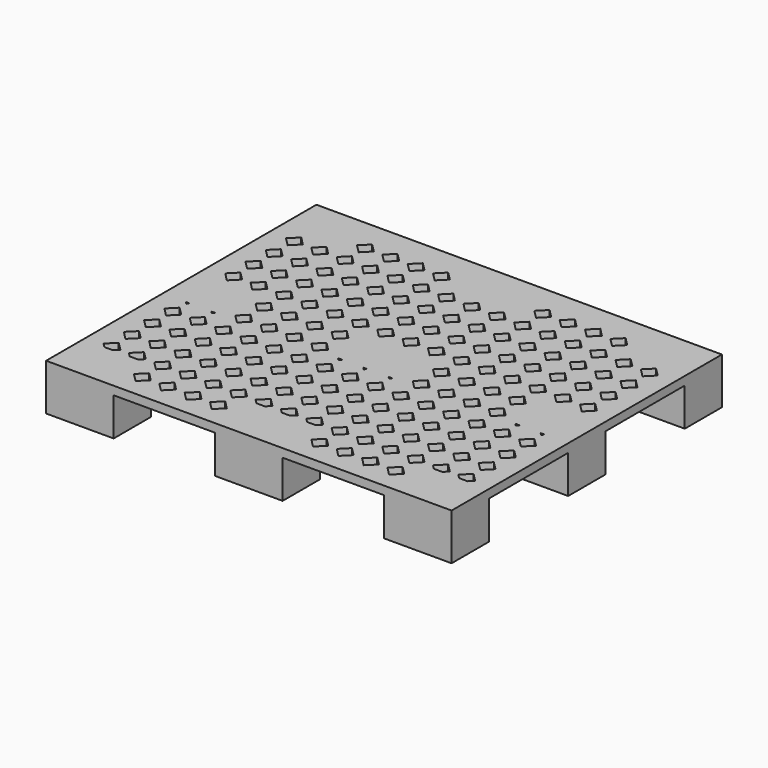
from build123d import *

# Parameters (mm, degrees)
F0_W     = 1219.2
F0_H     = 1016
F1_DEPTH = 25.4
F3_DEPTH = 25.401
F4_W     = 203.2
F4_H     = 139.7
F5_DEPTH = 139.7


with BuildPart() as f1:
    # F0 (on Top) → F1 (new body)
    with BuildSketch(Plane.XY):
        with Locations((34.03111, 0)):
            Rectangle(F0_W, F0_H)
    extrude(amount=F1_DEPTH)

    # F2 (on face) → F3 (cut, through all)
    with BuildSketch(Plane.XY.offset(25.4)):
        Polygon((-499.36889, -406.4), (-524.76889, -431.8), (-499.36889, -457.2), (-473.96889, -431.8), align=None)
        Polygon((-473.96889, -355.6), (-499.36889, -330.2), (-524.76889, -355.6), (-499.36889, -381), align=None)
        Polygon((-473.96889, -279.4), (-499.36889, -254), (-524.76889, -279.4), (-499.36889, -304.8), align=None)
        Polygon((-473.96889, -203.2), (-499.36889, -177.8), (-524.76889, -203.2), (-499.36889, -228.6), align=None)
        Polygon((-473.96889, -127), (-499.36889, -101.6), (-524.76889, -127), (-499.36889, -152.4), align=None)
        Polygon((-473.96889, -50.8), (-499.36889, -25.4), (-524.76889, -50.8), (-499.36889, -76.2), align=None)
        Polygon((-473.96889, 25.4), (-499.36889, 50.8), (-524.76889, 25.4), (-499.36889, 0), align=None)
        Polygon((-473.96889, 101.6), (-499.36889, 127), (-524.76889, 101.6), (-499.36889, 76.2), align=None)
        Polygon((-473.96889, 177.8), (-499.36889, 203.2), (-524.76889, 177.8), (-499.36889, 152.4), align=None)
        Polygon((-473.96889, 254), (-499.36889, 279.4), (-524.76889, 254), (-499.36889, 228.6), align=None)
        Polygon((-473.96889, 330.2), (-499.36889, 355.6), (-524.76889, 330.2), (-499.36889, 304.8), align=None)
        Polygon((-473.96889, 406.4), (-499.36889, 431.8), (-524.76889, 406.4), (-499.36889, 381), align=None)
        Polygon((-397.76889, -431.8), (-423.16889, -406.4), (-448.56889, -431.8), (-423.16889, -457.2), align=None)
        Polygon((-397.76889, -355.6), (-423.16889, -330.2), (-448.56889, -355.6), (-423.16889, -381), align=None)
        Polygon((-397.76889, -279.4), (-423.16889, -254), (-448.56889, -279.4), (-423.16889, -304.8), align=None)
        Polygon((-397.76889, -203.2), (-423.16889, -177.8), (-448.56889, -203.2), (-423.16889, -228.6), align=None)
        Polygon((-397.76889, -127), (-423.16889, -101.6), (-448.56889, -127), (-423.16889, -152.4), align=None)
        Polygon((-397.76889, -50.8), (-423.16889, -25.4), (-448.56889, -50.8), (-423.16889, -76.2), align=None)
        Polygon((-397.76889, 25.4), (-423.16889, 50.8), (-448.56889, 25.4), (-423.16889, 0), align=None)
        Polygon((-397.76889, 101.6), (-423.16889, 127), (-448.56889, 101.6), (-423.16889, 76.2), align=None)
        Polygon((-397.76889, 177.8), (-423.16889, 203.2), (-448.56889, 177.8), (-423.16889, 152.4), align=None)
        Polygon((-397.76889, 254), (-423.16889, 279.4), (-448.56889, 254), (-423.16889, 228.6), align=None)
        Polygon((-397.76889, 330.2), (-423.16889, 355.6), (-448.56889, 330.2), (-423.16889, 304.8), align=None)
        Polygon((-397.76889, 406.4), (-423.16889, 431.8), (-448.56889, 406.4), (-423.16889, 381), align=None)
        Polygon((-321.56889, -431.8), (-346.96889, -406.4), (-372.36889, -431.8), (-346.96889, -457.2), align=None)
        Polygon((-321.56889, -355.6), (-346.96889, -330.2), (-372.36889, -355.6), (-346.96889, -381), align=None)
        Polygon((-321.56889, -279.4), (-346.96889, -254), (-372.36889, -279.4), (-346.96889, -304.8), align=None)
        Polygon((-321.56889, -203.2), (-346.96889, -177.8), (-372.36889, -203.2), (-346.96889, -228.6), align=None)
        Polygon((-321.56889, -127), (-346.96889, -101.6), (-372.36889, -127), (-346.96889, -152.4), align=None)
        Polygon((-321.56889, -50.8), (-346.96889, -25.4), (-372.36889, -50.8), (-346.96889, -76.2), align=None)
        Polygon((-321.56889, 25.4), (-346.96889, 50.8), (-372.36889, 25.4), (-346.96889, 0), align=None)
        Polygon((-321.56889, 101.6), (-346.96889, 127), (-372.36889, 101.6), (-346.96889, 76.2), align=None)
        Polygon((-321.56889, 177.8), (-346.96889, 203.2), (-372.36889, 177.8), (-346.96889, 152.4), align=None)
        Polygon((-321.56889, 254), (-346.96889, 279.4), (-372.36889, 254), (-346.96889, 228.6), align=None)
        Polygon((-321.56889, 330.2), (-346.96889, 355.6), (-372.36889, 330.2), (-346.96889, 304.8), align=None)
        Polygon((-321.56889, 406.4), (-346.96889, 431.8), (-372.36889, 406.4), (-346.96889, 381), align=None)
        Polygon((-245.36889, -431.8), (-270.76889, -406.4), (-296.16889, -431.8), (-270.76889, -457.2), align=None)
        Polygon((-245.36889, -355.6), (-270.76889, -330.2), (-296.16889, -355.6), (-270.76889, -381), align=None)
        Polygon((-245.36889, -279.4), (-270.76889, -254), (-296.16889, -279.4), (-270.76889, -304.8), align=None)
        Polygon((-245.36889, -203.2), (-270.76889, -177.8), (-296.16889, -203.2), (-270.76889, -228.6), align=None)
        Polygon((-245.36889, -127), (-270.76889, -101.6), (-296.16889, -127), (-270.76889, -152.4), align=None)
        Polygon((-245.36889, -50.8), (-270.76889, -25.4), (-296.16889, -50.8), (-270.76889, -76.2), align=None)
        Polygon((-245.36889, 25.4), (-270.76889, 50.8), (-296.16889, 25.4), (-270.76889, 0), align=None)
        Polygon((-245.36889, 101.6), (-270.76889, 127), (-296.16889, 101.6), (-270.76889, 76.2), align=None)
        Polygon((-245.36889, 177.8), (-270.76889, 203.2), (-296.16889, 177.8), (-270.76889, 152.4), align=None)
        Polygon((-245.36889, 254), (-270.76889, 279.4), (-296.16889, 254), (-270.76889, 228.6), align=None)
        Polygon((-245.36889, 330.2), (-270.76889, 355.6), (-296.16889, 330.2), (-270.76889, 304.8), align=None)
        Polygon((-245.36889, 406.4), (-270.76889, 431.8), (-296.16889, 406.4), (-270.76889, 381), align=None)
        Polygon((-169.16889, -431.8), (-194.56889, -406.4), (-219.96889, -431.8), (-194.56889, -457.2), align=None)
        Polygon((-169.16889, -355.6), (-194.56889, -330.2), (-219.96889, -355.6), (-194.56889, -381), align=None)
        Polygon((-169.16889, -279.4), (-194.56889, -254), (-219.96889, -279.4), (-194.56889, -304.8), align=None)
        Polygon((-169.16889, -203.2), (-194.56889, -177.8), (-219.96889, -203.2), (-194.56889, -228.6), align=None)
        Polygon((-169.16889, -127), (-194.56889, -101.6), (-219.96889, -127), (-194.56889, -152.4), align=None)
        Polygon((-169.16889, -50.8), (-194.56889, -25.4), (-219.96889, -50.8), (-194.56889, -76.2), align=None)
        Polygon((-169.16889, 25.4), (-194.56889, 50.8), (-219.96889, 25.4), (-194.56889, 0), align=None)
        Polygon((-169.16889, 101.6), (-194.56889, 127), (-219.96889, 101.6), (-194.56889, 76.2), align=None)
        Polygon((-169.16889, 177.8), (-194.56889, 203.2), (-219.96889, 177.8), (-194.56889, 152.4), align=None)
        Polygon((-169.16889, 254), (-194.56889, 279.4), (-219.96889, 254), (-194.56889, 228.6), align=None)
        Polygon((-169.16889, 330.2), (-194.56889, 355.6), (-219.96889, 330.2), (-194.56889, 304.8), align=None)
        Polygon((-169.16889, 406.4), (-194.56889, 431.8), (-219.96889, 406.4), (-194.56889, 381), align=None)
        Polygon((-92.96889, -431.8), (-118.36889, -406.4), (-143.76889, -431.8), (-118.36889, -457.2), align=None)
        Polygon((-92.96889, -355.6), (-118.36889, -330.2), (-143.76889, -355.6), (-118.36889, -381), align=None)
        Polygon((-92.96889, -279.4), (-118.36889, -254), (-143.76889, -279.4), (-118.36889, -304.8), align=None)
        Polygon((-92.96889, -203.2), (-118.36889, -177.8), (-143.76889, -203.2), (-118.36889, -228.6), align=None)
        Polygon((-92.96889, -127), (-118.36889, -101.6), (-143.76889, -127), (-118.36889, -152.4), align=None)
        Polygon((-92.96889, -50.8), (-118.36889, -25.4), (-143.76889, -50.8), (-118.36889, -76.2), align=None)
        Polygon((-92.96889, 25.4), (-118.36889, 50.8), (-143.76889, 25.4), (-118.36889, 0), align=None)
        Polygon((-92.96889, 101.6), (-118.36889, 127), (-143.76889, 101.6), (-118.36889, 76.2), align=None)
        Polygon((-92.96889, 177.8), (-118.36889, 203.2), (-143.76889, 177.8), (-118.36889, 152.4), align=None)
        Polygon((-92.96889, 254), (-118.36889, 279.4), (-143.76889, 254), (-118.36889, 228.6), align=None)
        Polygon((-92.96889, 330.2), (-118.36889, 355.6), (-143.76889, 330.2), (-118.36889, 304.8), align=None)
        Polygon((-92.96889, 406.4), (-118.36889, 431.8), (-143.76889, 406.4), (-118.36889, 381), align=None)
        Polygon((-16.76889, -431.8), (-42.16889, -406.4), (-67.56889, -431.8), (-42.16889, -457.2), align=None)
        Polygon((-16.76889, -355.6), (-42.16889, -330.2), (-67.56889, -355.6), (-42.16889, -381), align=None)
        Polygon((-16.76889, -279.4), (-42.16889, -254), (-67.56889, -279.4), (-42.16889, -304.8), align=None)
        Polygon((-16.76889, -203.2), (-42.16889, -177.8), (-67.56889, -203.2), (-42.16889, -228.6), align=None)
        Polygon((-16.76889, -127), (-42.16889, -101.6), (-67.56889, -127), (-42.16889, -152.4), align=None)
        Polygon((-16.76889, -50.8), (-42.16889, -25.4), (-67.56889, -50.8), (-42.16889, -76.2), align=None)
        Polygon((-16.76889, 25.4), (-42.16889, 50.8), (-67.56889, 25.4), (-42.16889, 0), align=None)
        Polygon((-16.76889, 101.6), (-42.16889, 127), (-67.56889, 101.6), (-42.16889, 76.2), align=None)
        Polygon((-16.76889, 177.8), (-42.16889, 203.2), (-67.56889, 177.8), (-42.16889, 152.4), align=None)
        Polygon((-16.76889, 254), (-42.16889, 279.4), (-67.56889, 254), (-42.16889, 228.6), align=None)
        Polygon((-16.76889, 330.2), (-42.16889, 355.6), (-67.56889, 330.2), (-42.16889, 304.8), align=None)
        Polygon((-16.76889, 406.4), (-42.16889, 431.8), (-67.56889, 406.4), (-42.16889, 381), align=None)
        Polygon((59.43111, -431.8), (34.03111, -406.4), (8.63111, -431.8), (34.03111, -457.2), align=None)
        Polygon((59.43111, -355.6), (34.03111, -330.2), (8.63111, -355.6), (34.03111, -381), align=None)
        Polygon((59.43111, -279.4), (34.03111, -254), (8.63111, -279.4), (34.03111, -304.8), align=None)
        Polygon((59.43111, -203.2), (34.03111, -177.8), (8.63111, -203.2), (34.03111, -228.6), align=None)
        Polygon((59.43111, -127), (34.03111, -101.6), (8.63111, -127), (34.03111, -152.4), align=None)
        Polygon((59.43111, -50.8), (34.03111, -25.4), (8.63111, -50.8), (34.03111, -76.2), align=None)
        Polygon((59.43111, 25.4), (34.03111, 50.8), (8.63111, 25.4), (34.03111, 0), align=None)
        Polygon((59.43111, 101.6), (34.03111, 127), (8.63111, 101.6), (34.03111, 76.2), align=None)
        Polygon((59.43111, 177.8), (34.03111, 203.2), (8.63111, 177.8), (34.03111, 152.4), align=None)
        Polygon((59.43111, 254), (34.03111, 279.4), (8.63111, 254), (34.03111, 228.6), align=None)
        Polygon((59.43111, 330.2), (34.03111, 355.6), (8.63111, 330.2), (34.03111, 304.8), align=None)
        Polygon((59.43111, 406.4), (34.03111, 431.8), (8.63111, 406.4), (34.03111, 381), align=None)
        Polygon((135.63111, -431.8), (110.23111, -406.4), (84.83111, -431.8), (110.23111, -457.2), align=None)
        Polygon((135.63111, -355.6), (110.23111, -330.2), (84.83111, -355.6), (110.23111, -381), align=None)
        Polygon((135.63111, -279.4), (110.23111, -254), (84.83111, -279.4), (110.23111, -304.8), align=None)
        Polygon((135.63111, -203.2), (110.23111, -177.8), (84.83111, -203.2), (110.23111, -228.6), align=None)
        Polygon((135.63111, -127), (110.23111, -101.6), (84.83111, -127), (110.23111, -152.4), align=None)
        Polygon((135.63111, -50.8), (110.23111, -25.4), (84.83111, -50.8), (110.23111, -76.2), align=None)
        Polygon((135.63111, 25.4), (110.23111, 50.8), (84.83111, 25.4), (110.23111, 0), align=None)
        Polygon((135.63111, 101.6), (110.23111, 127), (84.83111, 101.6), (110.23111, 76.2), align=None)
        Polygon((135.63111, 177.8), (110.23111, 203.2), (84.83111, 177.8), (110.23111, 152.4), align=None)
        Polygon((135.63111, 254), (110.23111, 279.4), (84.83111, 254), (110.23111, 228.6), align=None)
        Polygon((135.63111, 330.2), (110.23111, 355.6), (84.83111, 330.2), (110.23111, 304.8), align=None)
        Polygon((135.63111, 406.4), (110.23111, 431.8), (84.83111, 406.4), (110.23111, 381), align=None)
        Polygon((211.83111, -431.8), (186.43111, -406.4), (161.03111, -431.8), (186.43111, -457.2), align=None)
        Polygon((211.83111, -355.6), (186.43111, -330.2), (161.03111, -355.6), (186.43111, -381), align=None)
        Polygon((211.83111, -279.4), (186.43111, -254), (161.03111, -279.4), (186.43111, -304.8), align=None)
        Polygon((211.83111, -203.2), (186.43111, -177.8), (161.03111, -203.2), (186.43111, -228.6), align=None)
        Polygon((211.83111, -127), (186.43111, -101.6), (161.03111, -127), (186.43111, -152.4), align=None)
        Polygon((211.83111, -50.8), (186.43111, -25.4), (161.03111, -50.8), (186.43111, -76.2), align=None)
        Polygon((211.83111, 25.4), (186.43111, 50.8), (161.03111, 25.4), (186.43111, 0), align=None)
        Polygon((211.83111, 101.6), (186.43111, 127), (161.03111, 101.6), (186.43111, 76.2), align=None)
        Polygon((211.83111, 177.8), (186.43111, 203.2), (161.03111, 177.8), (186.43111, 152.4), align=None)
        Polygon((211.83111, 254), (186.43111, 279.4), (161.03111, 254), (186.43111, 228.6), align=None)
        Polygon((211.83111, 330.2), (186.43111, 355.6), (161.03111, 330.2), (186.43111, 304.8), align=None)
        Polygon((211.83111, 406.4), (186.43111, 431.8), (161.03111, 406.4), (186.43111, 381), align=None)
        Polygon((288.03111, -431.8), (262.63111, -406.4), (237.23111, -431.8), (262.63111, -457.2), align=None)
        Polygon((288.03111, -355.6), (262.63111, -330.2), (237.23111, -355.6), (262.63111, -381), align=None)
        Polygon((288.03111, -279.4), (262.63111, -254), (237.23111, -279.4), (262.63111, -304.8), align=None)
        Polygon((288.03111, -203.2), (262.63111, -177.8), (237.23111, -203.2), (262.63111, -228.6), align=None)
        Polygon((288.03111, -127), (262.63111, -101.6), (237.23111, -127), (262.63111, -152.4), align=None)
        Polygon((288.03111, -50.8), (262.63111, -25.4), (237.23111, -50.8), (262.63111, -76.2), align=None)
        Polygon((288.03111, 25.4), (262.63111, 50.8), (237.23111, 25.4), (262.63111, 0), align=None)
        Polygon((288.03111, 101.6), (262.63111, 127), (237.23111, 101.6), (262.63111, 76.2), align=None)
        Polygon((288.03111, 177.8), (262.63111, 203.2), (237.23111, 177.8), (262.63111, 152.4), align=None)
        Polygon((288.03111, 254), (262.63111, 279.4), (237.23111, 254), (262.63111, 228.6), align=None)
        Polygon((288.03111, 330.2), (262.63111, 355.6), (237.23111, 330.2), (262.63111, 304.8), align=None)
        Polygon((288.03111, 406.4), (262.63111, 431.8), (237.23111, 406.4), (262.63111, 381), align=None)
        Polygon((364.23111, -431.8), (338.83111, -406.4), (313.43111, -431.8), (338.83111, -457.2), align=None)
        Polygon((364.23111, -355.6), (338.83111, -330.2), (313.43111, -355.6), (338.83111, -381), align=None)
        Polygon((364.23111, -279.4), (338.83111, -254), (313.43111, -279.4), (338.83111, -304.8), align=None)
        Polygon((364.23111, -203.2), (338.83111, -177.8), (313.43111, -203.2), (338.83111, -228.6), align=None)
        Polygon((364.23111, -127), (338.83111, -101.6), (313.43111, -127), (338.83111, -152.4), align=None)
        Polygon((364.23111, -50.8), (338.83111, -25.4), (313.43111, -50.8), (338.83111, -76.2), align=None)
        Polygon((364.23111, 25.4), (338.83111, 50.8), (313.43111, 25.4), (338.83111, 0), align=None)
        Polygon((364.23111, 101.6), (338.83111, 127), (313.43111, 101.6), (338.83111, 76.2), align=None)
        Polygon((364.23111, 177.8), (338.83111, 203.2), (313.43111, 177.8), (338.83111, 152.4), align=None)
        Polygon((364.23111, 254), (338.83111, 279.4), (313.43111, 254), (338.83111, 228.6), align=None)
        Polygon((364.23111, 330.2), (338.83111, 355.6), (313.43111, 330.2), (338.83111, 304.8), align=None)
        Polygon((364.23111, 406.4), (338.83111, 431.8), (313.43111, 406.4), (338.83111, 381), align=None)
        Polygon((440.43111, -431.8), (415.03111, -406.4), (389.63111, -431.8), (415.03111, -457.2), align=None)
        Polygon((440.43111, -355.6), (415.03111, -330.2), (389.63111, -355.6), (415.03111, -381), align=None)
        Polygon((440.43111, -279.4), (415.03111, -254), (389.63111, -279.4), (415.03111, -304.8), align=None)
        Polygon((440.43111, -203.2), (415.03111, -177.8), (389.63111, -203.2), (415.03111, -228.6), align=None)
        Polygon((440.43111, -127), (415.03111, -101.6), (389.63111, -127), (415.03111, -152.4), align=None)
        Polygon((440.43111, -50.8), (415.03111, -25.4), (389.63111, -50.8), (415.03111, -76.2), align=None)
        Polygon((440.43111, 25.4), (415.03111, 50.8), (389.63111, 25.4), (415.03111, 0), align=None)
        Polygon((440.43111, 101.6), (415.03111, 127), (389.63111, 101.6), (415.03111, 76.2), align=None)
        Polygon((440.43111, 177.8), (415.03111, 203.2), (389.63111, 177.8), (415.03111, 152.4), align=None)
        Polygon((440.43111, 254), (415.03111, 279.4), (389.63111, 254), (415.03111, 228.6), align=None)
        Polygon((440.43111, 330.2), (415.03111, 355.6), (389.63111, 330.2), (415.03111, 304.8), align=None)
        Polygon((440.43111, 406.4), (415.03111, 431.8), (389.63111, 406.4), (415.03111, 381), align=None)
        Polygon((516.63111, -431.8), (491.23111, -406.4), (465.83111, -431.8), (491.23111, -457.2), align=None)
        Polygon((516.63111, -355.6), (491.23111, -330.2), (465.83111, -355.6), (491.23111, -381), align=None)
        Polygon((516.63111, -279.4), (491.23111, -254), (465.83111, -279.4), (491.23111, -304.8), align=None)
        Polygon((516.63111, -203.2), (491.23111, -177.8), (465.83111, -203.2), (491.23111, -228.6), align=None)
        Polygon((516.63111, -127), (491.23111, -101.6), (465.83111, -127), (491.23111, -152.4), align=None)
        Polygon((516.63111, -50.8), (491.23111, -25.4), (465.83111, -50.8), (491.23111, -76.2), align=None)
        Polygon((516.63111, 25.4), (491.23111, 50.8), (465.83111, 25.4), (491.23111, 0), align=None)
        Polygon((516.63111, 101.6), (491.23111, 127), (465.83111, 101.6), (491.23111, 76.2), align=None)
        Polygon((516.63111, 177.8), (491.23111, 203.2), (465.83111, 177.8), (491.23111, 152.4), align=None)
        Polygon((516.63111, 254), (491.23111, 279.4), (465.83111, 254), (491.23111, 228.6), align=None)
        Polygon((516.63111, 330.2), (491.23111, 355.6), (465.83111, 330.2), (491.23111, 304.8), align=None)
        Polygon((516.63111, 406.4), (491.23111, 431.8), (465.83111, 406.4), (491.23111, 381), align=None)
        Polygon((592.83111, -431.8), (567.43111, -406.4), (542.03111, -431.8), (567.43111, -457.2), align=None)
        Polygon((592.83111, -355.6), (567.43111, -330.2), (542.03111, -355.6), (567.43111, -381), align=None)
        Polygon((592.83111, -279.4), (567.43111, -254), (542.03111, -279.4), (567.43111, -304.8), align=None)
        Polygon((592.83111, -203.2), (567.43111, -177.8), (542.03111, -203.2), (567.43111, -228.6), align=None)
        Polygon((592.83111, -127), (567.43111, -101.6), (542.03111, -127), (567.43111, -152.4), align=None)
        Polygon((592.83111, -50.8), (567.43111, -25.4), (542.03111, -50.8), (567.43111, -76.2), align=None)
        Polygon((592.83111, 25.4), (567.43111, 50.8), (542.03111, 25.4), (567.43111, 0), align=None)
        Polygon((592.83111, 101.6), (567.43111, 127), (542.03111, 101.6), (567.43111, 76.2), align=None)
        Polygon((592.83111, 177.8), (567.43111, 203.2), (542.03111, 177.8), (567.43111, 152.4), align=None)
        Polygon((592.83111, 254), (567.43111, 279.4), (542.03111, 254), (567.43111, 228.6), align=None)
        Polygon((592.83111, 330.2), (567.43111, 355.6), (542.03111, 330.2), (567.43111, 304.8), align=None)
        Polygon((592.83111, 406.4), (567.43111, 431.8), (542.03111, 406.4), (567.43111, 381), align=None)
    extrude(amount=-F3_DEPTH, mode=Mode.SUBTRACT)

    # F4 (on face) → F5 (join)
    with BuildSketch(Plane.XY.offset(25.4)):
        with Locations((-473.96889, -438.15)):
            Rectangle(F4_W, F4_H)
        with Locations((-473.96889, 0)):
            Rectangle(F4_W, F4_H)
        with Locations((-473.96889, 438.15)):
            Rectangle(F4_W, F4_H)
        with Locations((34.03111, -438.15)):
            Rectangle(F4_W, F4_H)
        with Locations((34.03111, 0)):
            Rectangle(F4_W, F4_H)
        with Locations((34.03111, 438.15)):
            Rectangle(F4_W, F4_H)
        with Locations((542.03111, -438.15)):
            Rectangle(F4_W, F4_H)
        with Locations((542.03111, 0)):
            Rectangle(F4_W, F4_H)
        with Locations((542.03111, 438.15)):
            Rectangle(F4_W, F4_H)
    extrude(amount=-F5_DEPTH)


solid = f1.part
